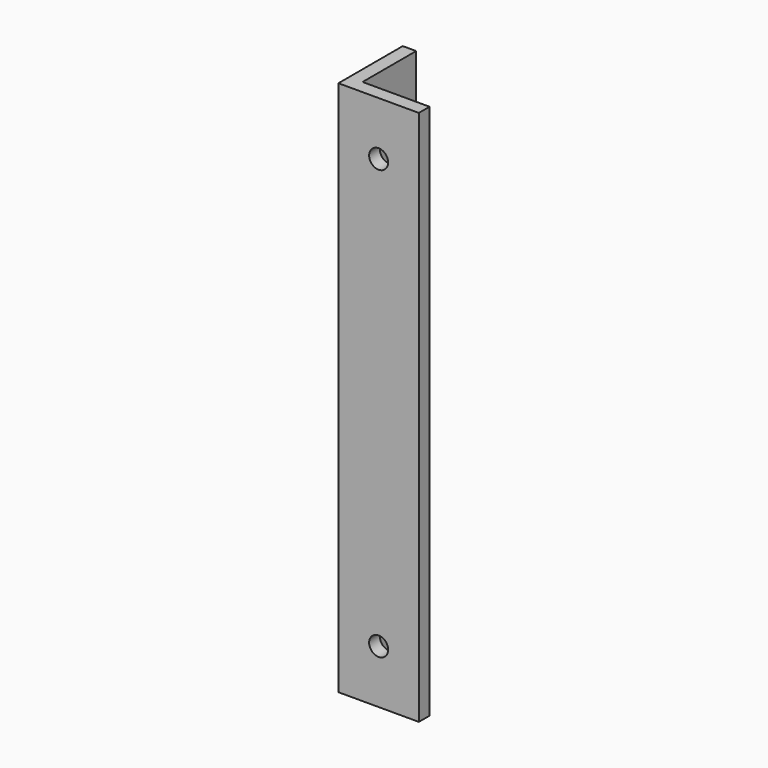
from build123d import *

# Parameters (mm, degrees)
F1_DEPTH  = 254
F3_D      = 9
F4_D      = 9
F9_D      = 6
F11_DEPTH = 6.35


with BuildPart() as f1:
    # F0 (on Top) → F1 (new body)
    with BuildSketch(Plane.XY):
        Polygon((0, 38.1), (0, 0), (38.1, 0), (38.1, 6.35), (6.35, 6.35), (6.35, 38.1), align=None)
    extrude(amount=F1_DEPTH)

    # F3 (through all)
    with Locations(Plane.XZ):
        with Locations((19.05, 228.6)):
            Hole(F3_D / 2)

    # F4 (through all)
    with Locations(Plane.XZ):
        with Locations((19.05, 25.4)):
            Hole(F4_D / 2)

    # F9 (through all)
    with Locations(Plane(origin=(0, 0, 0), x_dir=(0, -1, 0), z_dir=(-1, 0, 0))):
        with Locations((-19.05, 77.216), (-19.05, 176.53)):
            Hole(F9_D / 2)

    # F10 (on face) → F11 (cut, through all)
    with BuildSketch(Plane.YZ.offset(6.35)):
        with BuildLine():
            ThreePointArc((31.75, 161.29), (27.259872, 159.430128), (25.4, 154.94))
            Line((25.4, 154.94), (25.4, 99.06))
            ThreePointArc((25.4, 99.06), (27.259872, 94.569872), (31.75, 92.71))
            Line((31.75, 92.71), (38.1, 92.71))
            Line((38.1, 92.71), (38.1, 161.29))
            Line((38.1, 161.29), (31.75, 161.29))
        make_face()
    extrude(amount=-F11_DEPTH, mode=Mode.SUBTRACT)


solid = f1.part
